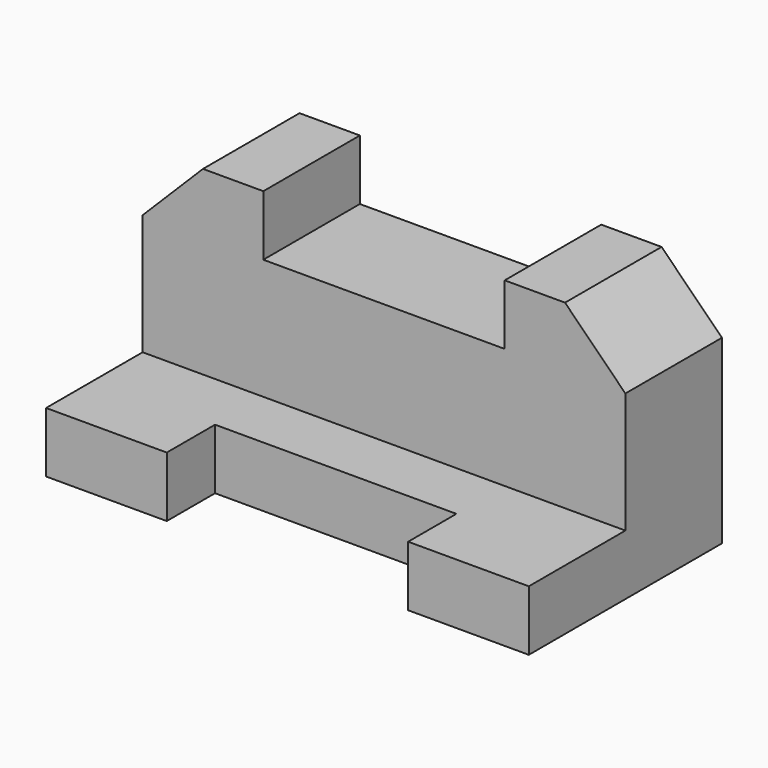
from build123d import *

# Parameters (mm, degrees)
F0_W     = 203.2
F0_H     = 101.6
F1_DEPTH = 101.6
F2_W     = 50.8
F2_H     = 76.2
F3_DEPTH = 203.201
F4_W     = 101.6
F4_H     = 25.4
F5_DEPTH = 25.401
F6_W     = 101.6
F6_H     = 25.4
F7_DEPTH = 50.801
F9_DEPTH = 50.801


with BuildPart() as f1:
    # F0 (on Top) → F1 (new body)
    with BuildSketch(Plane.XY):
        with Locations((9.415767, 9.206899)):
            Rectangle(F0_W, F0_H)
    extrude(amount=F1_DEPTH)

    # F2 (on face) → F3 (cut, through all)
    with BuildSketch(Plane.YZ.offset(111.015767)):
        with Locations((-16.193101, 63.5)):
            Rectangle(F2_W, F2_H)
    extrude(amount=-F3_DEPTH, mode=Mode.SUBTRACT)

    # F4 (on face) → F5 (cut, through all)
    with BuildSketch(Plane.XY.offset(25.4)):
        with Locations((9.415767, -28.893101)):
            Rectangle(F4_W, F4_H)
    extrude(amount=-F5_DEPTH, mode=Mode.SUBTRACT)

    # F6 (on face) → F7 (cut, through all)
    with BuildSketch(Plane.XZ.offset(-9.206899)):
        with Locations((9.415767, 88.9)):
            Rectangle(F6_W, F6_H)
    extrude(amount=-F7_DEPTH, mode=Mode.SUBTRACT)

    # F8 (on face) → F9 (cut, through all)
    with BuildSketch(Plane.XZ.offset(-9.206899)):
        Polygon((-92.184233, 101.6), (-92.184233, 76.2), (-66.784233, 101.6), align=None)
        Polygon((111.015767, 101.6), (85.615767, 101.6), (111.015767, 76.2), align=None)
    extrude(amount=-F9_DEPTH, mode=Mode.SUBTRACT)


solid = f1.part
